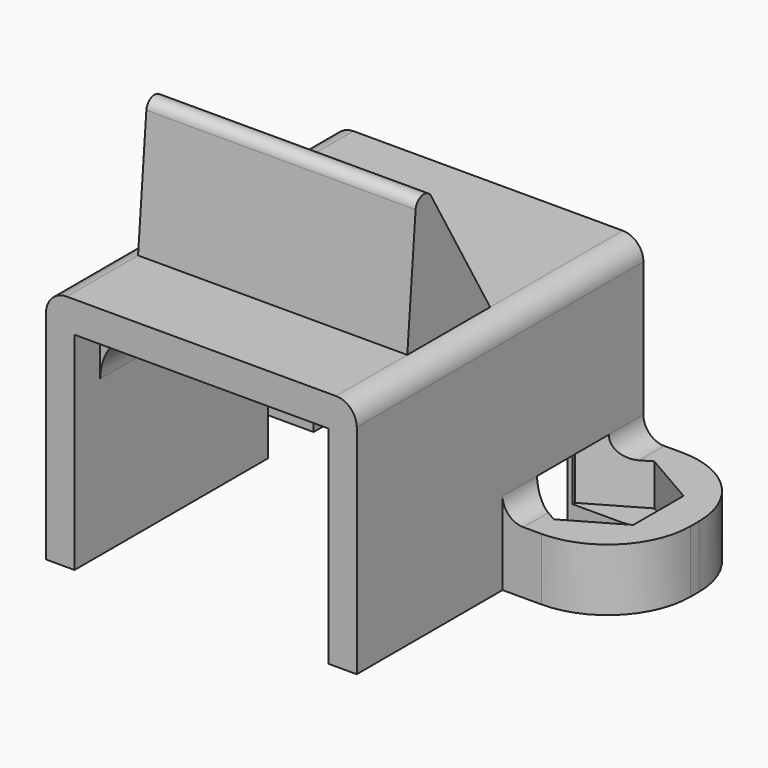
from build123d import *

# Parameters (mm, degrees)
PAD015_DEPTH         = 17.3
POCKET009_DEPTH      = 0.001
POCKET009_DEPTH_BACK = 11.501
SKETCH022_R          = 1.4
POCKET007_DEPTH      = 0.001
POCKET007_DEPTH_BACK = 11.501
POCKET008_DEPTH      = 2
POCKET008_DEPTH_BACK = 1
SKETCH026_W          = 18
SKETCH026_H          = 2.75
POCKET006_DEPTH      = 4
SKETCH027_W          = 12.25
SKETCH027_H          = 1.5
SKETCH027_H_2        = 2
POCKET010_DEPTH      = 10
PAD016_DEPTH         = 6.5


with BuildPart() as part:
    # Sketch024 → Pad015 (new body)
    with BuildSketch(Plane.XZ):
        with BuildLine():
            Line((-13.5, 0), (-6.125, 0))
            Line((-6.125, 0), (-6.125, 7.5))
            ThreePointArc((-3.625, 10), (-5.392767, 9.267767), (-6.125, 7.5))
            Line((-3.625, 10), (3.625, 10))
            ThreePointArc((6.125, 7.5), (5.392767, 9.267767), (3.625, 10))
            Line((6.125, 7.5), (6.125, 0))
            Line((6.125, 0), (13.5, 0))
            Line((13.5, 0), (13.5, 3))
            Line((13.5, 3), (8.5, 3))
            ThreePointArc((7.5, 4), (7.792893, 3.292893), (8.5, 3))
            Line((7.5, 4), (7.5, 10.5))
            ThreePointArc((7.5, 10.5), (7.207107, 11.207107), (6.5, 11.5))
            Line((6.5, 11.5), (-6.5, 11.5))
            ThreePointArc((-6.5, 11.5), (-7.207107, 11.207107), (-7.5, 10.5))
            Line((-7.5, 10.5), (-7.5, 4))
            ThreePointArc((-8.5, 3), (-7.792893, 3.292893), (-7.5, 4))
            Line((-8.5, 3), (-13.5, 3))
            Line((-13.5, 3), (-13.5, 0))
        make_face()
    extrude(amount=PAD015_DEPTH)

    # Sketch023 → Pocket009 (cut, two sides)
    with BuildSketch(Plane.XY) as pocket009_sk:
        with BuildLine():
            Line((-9.375, 0), (9.375, 0))
            ThreePointArc((13.375, -4), (12.203427, -1.171573), (9.375, 0))
            Line((13.375, -4), (13.375, -4.5))
            ThreePointArc((9.375, -8.5), (12.203427, -7.328427), (13.375, -4.5))
            Line((9.375, -8.5), (7.5, -8.5))
            Line((7.5, -8.5), (7.5, -29))
            Line((7.5, -29), (15, -29))
            Line((15, -29), (15, 1))
            Line((15, 1), (-15, 1))
            Line((-15, 1), (-15, -29))
            Line((-15, -29), (-7.5, -29))
            Line((-7.5, -29), (-7.5, -8.5))
            Line((-7.5, -8.5), (-9.375, -8.5))
            ThreePointArc((-13.375, -4.5), (-12.203427, -7.328427), (-9.375, -8.5))
            Line((-13.375, -4.5), (-13.375, -4))
            ThreePointArc((-9.375, 0), (-12.203427, -1.171573), (-13.375, -4))
        make_face()
    extrude(amount=-POCKET009_DEPTH, mode=Mode.SUBTRACT)
    extrude(pocket009_sk.sketch, amount=POCKET009_DEPTH_BACK, mode=Mode.SUBTRACT)

    # Sketch022 → Pocket007 (cut, two sides)
    with BuildSketch(Plane.XY) as pocket007_sk:
        with Locations((-9, -4.25)):
            Circle(SKETCH022_R)
        with Locations((9, -4.25)):
            Circle(SKETCH022_R)
    extrude(amount=-POCKET007_DEPTH, mode=Mode.SUBTRACT)
    extrude(pocket007_sk.sketch, amount=POCKET007_DEPTH_BACK, mode=Mode.SUBTRACT)

    # Sketch025 (on DatumPlane) → Pocket008 (cut, two sides)
    with BuildSketch(Plane.XY.offset(3)) as pocket008_sk:
        Polygon((-6.375, -5.765544), (-6.375, -2.734456), (-9, -1.218911), (-11.625, -2.734456), (-11.625, -5.765544), (-9, -7.281089), align=None)
        Polygon((11.625, -5.765544), (11.625, -2.734456), (9, -1.218911), (6.375, -2.734456), (6.375, -5.765544), (9, -7.281089), align=None)
    extrude(amount=-POCKET008_DEPTH, mode=Mode.SUBTRACT)
    extrude(pocket008_sk.sketch, amount=POCKET008_DEPTH_BACK, mode=Mode.SUBTRACT)

    # Sketch026 → Pocket006 (cut)
    with BuildSketch(Plane.XY):
        with Locations((0, -4.25)):
            Rectangle(SKETCH026_W, SKETCH026_H)
    extrude(amount=POCKET006_DEPTH, mode=Mode.SUBTRACT)

    # Sketch027 → Pocket010 (cut)
    with BuildSketch(Plane.XY):
        with Locations((0, -8.5)):
            Rectangle(SKETCH027_W, SKETCH027_H)
        with Locations((0, -11.5)):
            Rectangle(SKETCH027_W, SKETCH027_H)
        with Locations((0, -16.75)):
            Rectangle(SKETCH027_W, SKETCH027_H_2)
    extrude(amount=POCKET010_DEPTH, mode=Mode.SUBTRACT)

    # Sketch028 → Pad016 (join, symmetric)
    with BuildSketch(Plane.YZ):
        with BuildLine():
            Line((-13, 11.5), (-8, 11.5))
            Line((-11.566987, 17.678203), (-8, 11.5))
            ThreePointArc((-11.566987, 17.678203), (-12.109054, 17.916166), (-12.498243, 17.470078))
            Line((-13, 11.5), (-12.498243, 17.470078))
        make_face()
    extrude(amount=PAD016_DEPTH, both=True)


solid = part.part
